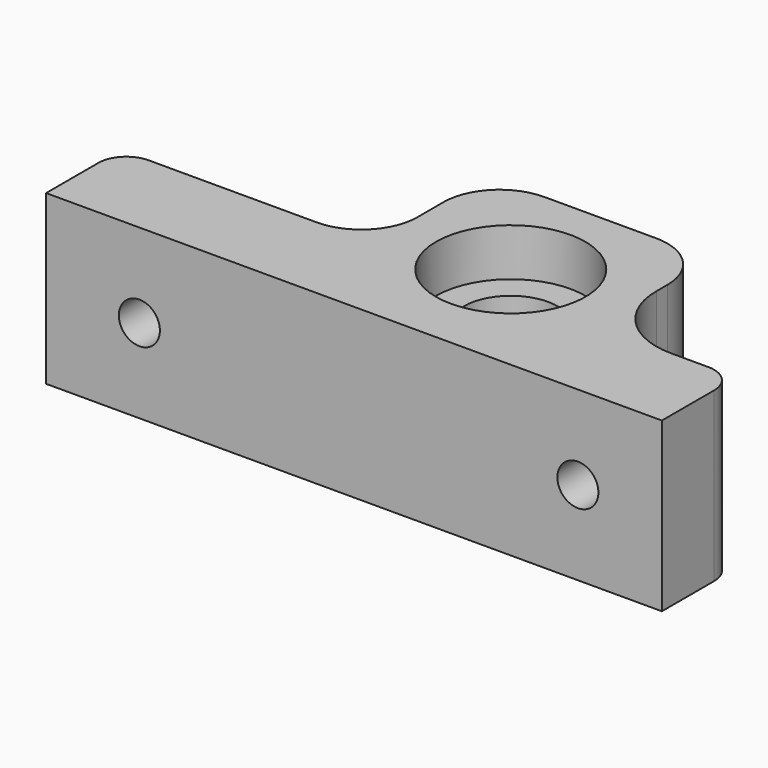
from build123d import *

# Parameters (mm, degrees)
SKETCH_R        = 5
PAD_DEPTH       = 9
SKETCH005_R     = 2.2
POCKET_DEPTH    = 25.501
SKETCH006_R     = 8
POCKET001_DEPTH = 5.1
SKETCH007_R     = 4.125
POCKET002_DEPTH = 4.2
FILLET_R        = 3


with BuildPart() as filletbody:
    # Sketch → Pad (new body, symmetric)
    with BuildSketch(Plane.XY):
        with BuildLine():
            Line((-6, 25.5), (6, 25.5))
            ThreePointArc((12, 19.5), (10.242641, 23.742641), (6, 25.5))
            Line((12, 19.5), (12, 16))
            ThreePointArc((12, 16), (13.757359, 11.757359), (18, 10))
            Line((18, 10), (39, 10))
            Line((39, 10), (39, 0))
            Line((39, 0), (-27, 0))
            Line((-27, 0), (-27, 10))
            Line((-27, 10), (-20, 10))
            ThreePointArc((-20, 10), (-14.343146, 12.343146), (-12, 18))
            Line((-12, 18), (-12, 19.5))
            ThreePointArc((-6, 25.5), (-10.242641, 23.742641), (-12, 19.5))
        make_face()
        with Locations((0, 13.5)):
            Circle(SKETCH_R, mode=Mode.SUBTRACT)
    extrude(amount=PAD_DEPTH, both=True)

    # Sketch005 (on Face7 of Pad) → Pocket (cut, through all)
    with BuildSketch(Plane.XZ):
        with Locations((29, 0)):
            Circle(SKETCH005_R)
        with Locations((-18, 0)):
            Circle(SKETCH005_R)
    extrude(amount=-POCKET_DEPTH, mode=Mode.SUBTRACT)

    # Sketch006 (on Face5 of Pocket) → Pocket001 (cut)
    with BuildSketch(Plane.XY.offset(9)):
        with Locations((0, 13.5)):
            Circle(SKETCH006_R)
    extrude(amount=-POCKET001_DEPTH, mode=Mode.SUBTRACT)

    # Sketch007 (on Face9 of Pocket001) → Pocket002 (cut, symmetric)
    with BuildSketch(Plane(origin=(0, 10, 0), x_dir=(-1, 0, 0), z_dir=(0, 1, 0))):
        with Locations((18, 0)):
            Circle(SKETCH007_R)
        with Locations((-29, 0)):
            Circle(SKETCH007_R)
    extrude(amount=POCKET002_DEPTH, both=True, mode=Mode.SUBTRACT)

    # Fillet
    fillet_edges = [filletbody.edges().sort_by_distance(p)[0] for p in [
        (39, 10, 0),
        (-27, 10, 0),
    ]]
    fillet(fillet_edges, radius=FILLET_R)


with BuildPart() as part_mirroring:
    # Part__Mirroring: instance of FilletBody
    add(filletbody.part.mirror(Plane(origin=(0, 0, 0), x_dir=(0, -1, 0), z_dir=(1, 0, 0))))


solid = part_mirroring.part
